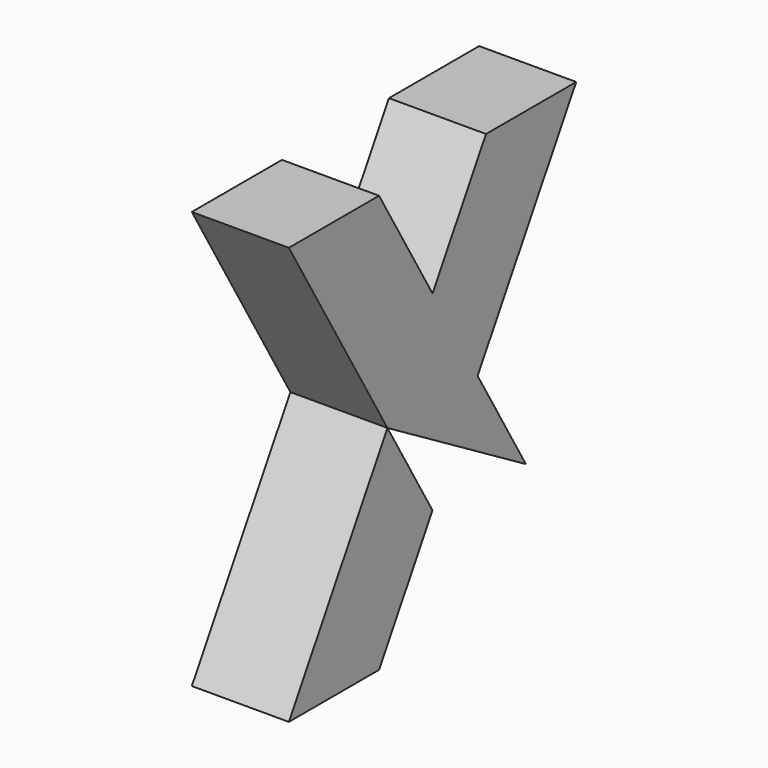
from build123d import *

# Parameters (mm, degrees)
F1_DEPTH = 50


with BuildPart() as f1:
    # F0 (on Right) → F1 (new body, symmetric)
    with BuildSketch(Plane.YZ):
        Polygon((-58.064018, -10), (-185, -225), (-68.871965, -225), (0, -108.346927), align=None)
        Polygon((0, 88.346927), (58.064018, -10), (185, 205), (68.871965, 205), align=None)
        Polygon((-185, 205), (-58.064018, -10), (120.202877, -115.24876), (58.064018, -10), (0, 88.346927), (-68.871965, 205), align=None)
    extrude(amount=F1_DEPTH, both=True)


solid = f1.part
